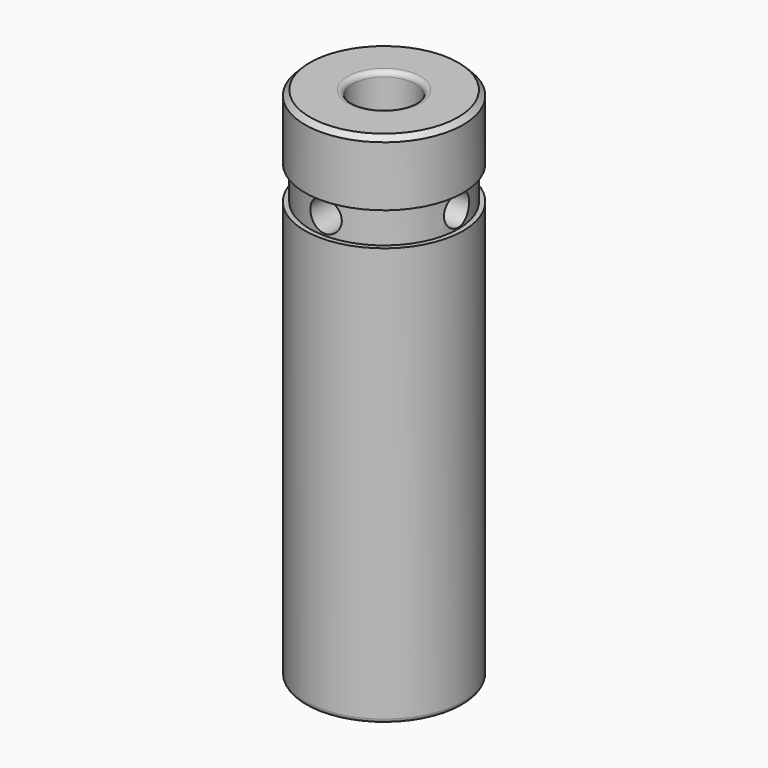
from build123d import *

# Parameters (mm, degrees)
F2_R     = 2.38125
F3_DEPTH = 25.4
F4_R     = 2.38125
F5_DEPTH = 25.4


with BuildPart() as f1:
    # F0 (on Front) → F1 (revolve)
    with BuildSketch(Plane.XZ):
        with BuildLine():
            Line((0, 12.985748), (0, -40.036752))
            Line((0, -40.036752), (11.364976, -40.036752))
            ThreePointArc((11.364976, -40.036752), (11.813989, -39.850765), (11.999976, -39.401752))
            Line((11.999976, -39.401752), (11.999976, 23.463248))
            Line((11.999976, 23.463248), (11.24966, 23.463248))
            Line((11.24966, 23.463248), (11.24966, 28.543248))
            Line((11.24966, 28.543248), (11.999976, 28.543248))
            Line((11.999976, 28.543248), (11.999976, 37.623748))
            Line((11.999976, 37.623748), (11.237976, 38.385748))
            Line((11.237976, 38.385748), (5.5372, 38.385748))
            ThreePointArc((5.5372, 38.385748), (4.998385, 38.162564), (4.7752, 37.623748))
            Line((4.7752, 37.623748), (4.7752, 12.985748))
            Line((4.7752, 12.985748), (0, 12.985748))
        make_face()
    revolve(axis=Axis((0, 0, -13.525502), (0, 0, -1)))

    # F2 (on Front) → F3 (cut)
    with BuildSketch(Plane.XZ):
        with Locations((0, 26.139926)):
            Circle(F2_R)
    extrude(amount=F3_DEPTH, mode=Mode.SUBTRACT)

    # F4 (on Right) → F5 (cut)
    with BuildSketch(Plane.YZ):
        with Locations((0, 26.043008)):
            Circle(F4_R)
    extrude(amount=F5_DEPTH, mode=Mode.SUBTRACT)


solid = f1.part
